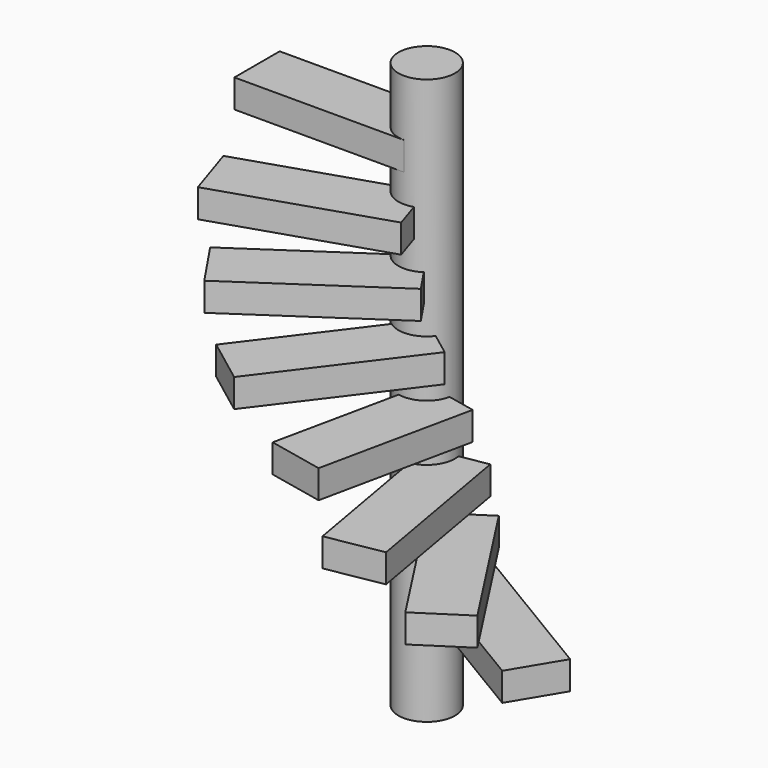
from build123d import *

# Parameters (mm, degrees)
BOX103_W               = 3
BOX103_H               = 1
BOX103_DEPTH           = 0.5
BOX103_PLACEMENT_ANGLE = 31
BOX104_W               = 3
BOX104_H               = 1
BOX104_DEPTH           = 0.5
BOX104_PLACEMENT_ANGLE = 57
BOX105_W               = 3
BOX105_H               = 1
BOX105_DEPTH           = 0.5
BOX105_PLACEMENT_ANGLE = 80
BOX106_W               = 2.75
BOX106_H               = 1
BOX106_DEPTH           = 0.5
BOX106_PLACEMENT_ANGLE = 102
BOX107_W               = 3
BOX107_H               = 1
BOX107_DEPTH           = 0.5
BOX107_PLACEMENT_ANGLE = 233
BOX108_W               = 3
BOX108_H               = 1
BOX108_DEPTH           = 0.5
BOX108_PLACEMENT_ANGLE = 214
BOX109_W               = 3
BOX109_H               = 1
BOX109_DEPTH           = 0.5
BOX109_PLACEMENT_ANGLE = 198
BOX110_W               = 3
BOX110_H               = 1
BOX110_DEPTH           = 0.5
CYLINDER005_R          = 0.5
CYLINDER005_DEPTH      = 10


with BuildPart() as box103:
    # Box103 → Box103 (new body)
    with BuildSketch(Plane.XY):
        with Locations((1.5, 0.5)):
            Rectangle(BOX103_W, BOX103_H)
    extrude(amount=BOX103_DEPTH)


with BuildPart() as box103_1:
    # Box103 placement: moved
    add(box103.part.moved(Location((4, 4, 2.5))).rotate(Axis((4, 4, 2.5), (0, 0, -1)), BOX103_PLACEMENT_ANGLE))


with BuildPart() as box104:
    # Box104 → Box104 (new body)
    with BuildSketch(Plane.XY):
        with Locations((1.5, 0.5)):
            Rectangle(BOX104_W, BOX104_H)
    extrude(amount=BOX104_DEPTH)


with BuildPart() as box104_1:
    # Box104 placement: moved
    add(box104.part.moved(Location((4, 4, 3.5))).rotate(Axis((4, 4, 3.5), (0, 0, -1)), BOX104_PLACEMENT_ANGLE))


with BuildPart() as box105:
    # Box105 → Box105 (new body)
    with BuildSketch(Plane.XY):
        with Locations((1.5, 0.5)):
            Rectangle(BOX105_W, BOX105_H)
    extrude(amount=BOX105_DEPTH)


with BuildPart() as box105_1:
    # Box105 placement: moved
    add(box105.part.moved(Location((4, 4, 4.5))).rotate(Axis((4, 4, 4.5), (0, 0, -1)), BOX105_PLACEMENT_ANGLE))


with BuildPart() as box106:
    # Box106 → Box106 (new body)
    with BuildSketch(Plane.XY):
        with Locations((1.375, 0.5)):
            Rectangle(BOX106_W, BOX106_H)
    extrude(amount=BOX106_DEPTH)


with BuildPart() as box106_1:
    # Box106 placement: moved
    add(box106.part.moved(Location((4, 4, 5.5))).rotate(Axis((4, 4, 5.5), (0, 0, -1)), BOX106_PLACEMENT_ANGLE))


with BuildPart() as box107:
    # Box107 → Box107 (new body)
    with BuildSketch(Plane.XY):
        with Locations((1.5, 0.5)):
            Rectangle(BOX107_W, BOX107_H)
    extrude(amount=BOX107_DEPTH)


with BuildPart() as box107_1:
    # Box107 placement: moved
    add(box107.part.moved(Location((4, 4, 6.5))).rotate(Axis((4, 4, 6.5), (0, 0, 1)), BOX107_PLACEMENT_ANGLE))


with BuildPart() as box108:
    # Box108 → Box108 (new body)
    with BuildSketch(Plane.XY):
        with Locations((1.5, 0.5)):
            Rectangle(BOX108_W, BOX108_H)
    extrude(amount=BOX108_DEPTH)


with BuildPart() as box108_1:
    # Box108 placement: moved
    add(box108.part.moved(Location((4, 4, 7.5))).rotate(Axis((4, 4, 7.5), (0, 0, 1)), BOX108_PLACEMENT_ANGLE))


with BuildPart() as box109:
    # Box109 → Box109 (new body)
    with BuildSketch(Plane.XY):
        with Locations((1.5, 0.5)):
            Rectangle(BOX109_W, BOX109_H)
    extrude(amount=BOX109_DEPTH)


with BuildPart() as box109_1:
    # Box109 placement: moved
    add(box109.part.moved(Location((4, 4, 8.5))).rotate(Axis((4, 4, 8.5), (0, 0, 1)), BOX109_PLACEMENT_ANGLE))


with BuildPart() as box110:
    # Box110 → Box110 (new body)
    with BuildSketch(Plane(origin=(4, 4.5, 9.5), x_dir=(-1, 0, 0), z_dir=(0, 0, 1))):
        with Locations((1.5, 0.5)):
            Rectangle(BOX110_W, BOX110_H)
    extrude(amount=BOX110_DEPTH)


with BuildPart() as fusion051:
    # Cylinder005 → Cylinder005 (new body)
    with BuildSketch(Plane(origin=(4, 4, 1), x_dir=(1, 0, 0), z_dir=(0, 0, 1))):
        Circle(CYLINDER005_R)
    extrude(amount=CYLINDER005_DEPTH)

    # Fusion044: union Box110
    add(box110.part)

    # Fusion045: union Box109
    add(box109_1.part)

    # Fusion046: union Box108
    add(box108_1.part)

    # Fusion047: union Box107
    add(box107_1.part)

    # Fusion048: union Box106
    add(box106_1.part)

    # Fusion049: union Box105
    add(box105_1.part)

    # Fusion050: union Box104
    add(box104_1.part)

    # Fusion051: union Box103
    add(box103_1.part)


solid = fusion051.part
